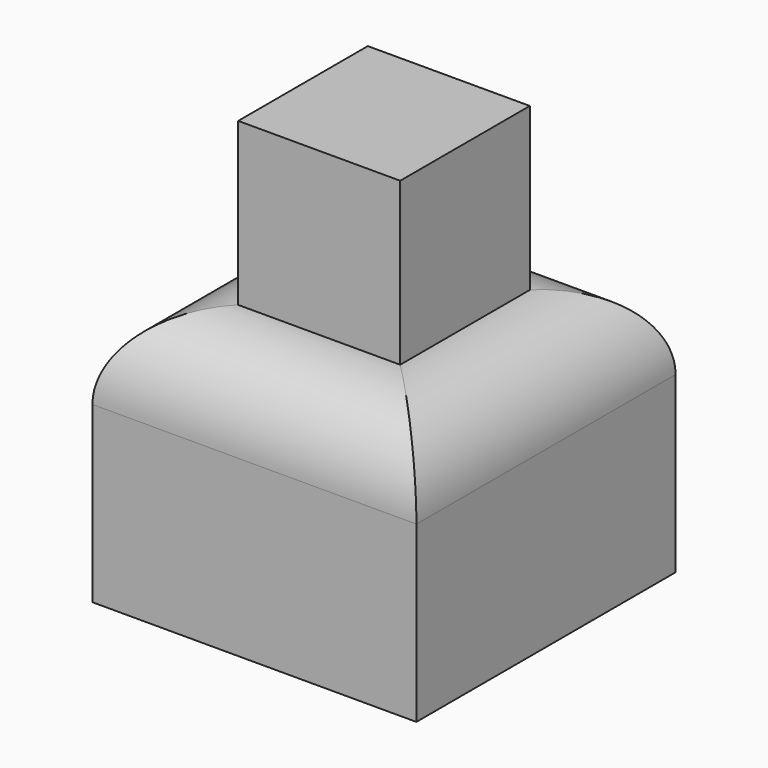
from build123d import *

# Parameters (mm, degrees)
F0_W      = 101.6
F0_H      = 101.6
F1_DEPTH  = 80.01
F2_R      = 25.4
F1_FACE_W = 50.8
F1_FACE_H = 50.8
F3_DEPTH  = 50.8


with BuildPart() as f1:
    # F0 (on Top) → F1 (new body)
    with BuildSketch(Plane.XY):
        with Locations((17.88482, 13.020775)):
            Rectangle(F0_W, F0_H)
    extrude(amount=F1_DEPTH)

    # F2
    f2_edges = [f1.edges().sort_by_distance(p)[0] for p in [
        (17.88482, -37.779225, 80.01),
        (-32.91518, 13.020775, 80.01),
        (17.88482, 63.820775, 80.01),
        (68.68482, 13.020775, 80.01),
    ]]
    fillet(f2_edges, radius=F2_R)

    # F1_face (on face) → F3 (join)
    with BuildSketch(Plane(origin=(17.88482, 13.020775, 80.01), x_dir=(1, 0, 0), z_dir=(0, 0, 1))):
        Rectangle(F1_FACE_W, F1_FACE_H)
    extrude(amount=F3_DEPTH)


solid = f1.part
